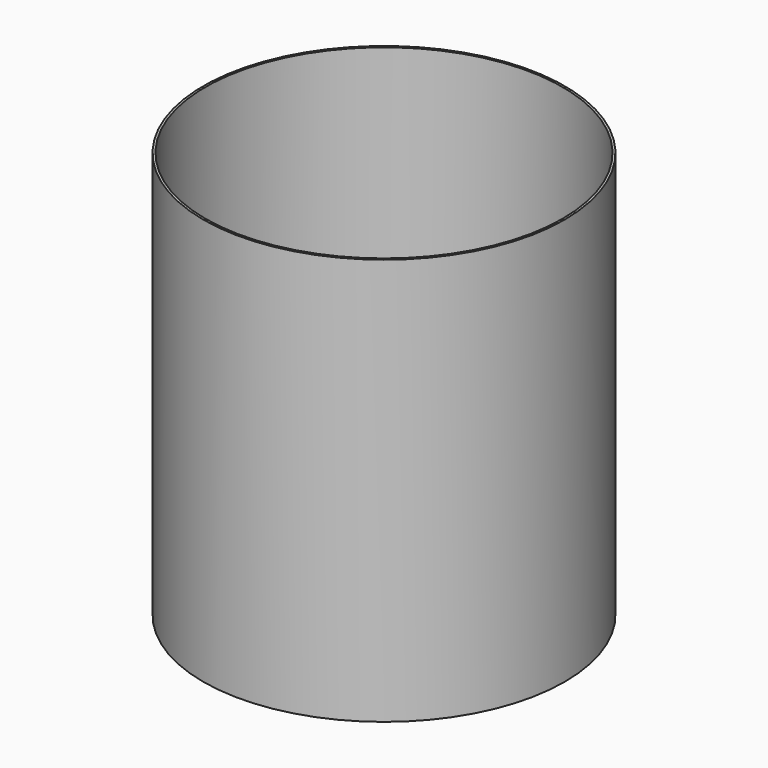
from build123d import *

# Parameters (mm, degrees)
F0_R     = 79
F1_DEPTH = 177.8
F2_T     = -1
F3_DEPTH = 1.001
F4_R     = 2
F5_DEPTH = 110


with BuildPart() as f1:
    # F0 (on Top) → F1 (new body)
    with BuildSketch(Plane.XY):
        Circle(F0_R)
    extrude(amount=F1_DEPTH)

    # F2
    f2_openings = [f1.faces().sort_by_distance(p)[0] for p in [
        (0, 0, 177.8),
    ]]
    offset(amount=F2_T, openings=f2_openings)

    # F3 (cut, through all): a face of the model
    f3_faces = [f1.faces().sort_by_distance(p)[0] for p in [
        (0, 0, 1),
    ]]
    extrude(f3_faces, amount=-F3_DEPTH, mode=Mode.SUBTRACT)


with BuildPart() as f5:
    # F4 (on Top) → F5 (new body)
    with BuildSketch(Plane.XY):
        with Locations((-59.2270195484, 59.6657395363)):
            Circle(F4_R)
    extrude(amount=F5_DEPTH)


solid = f1.part
